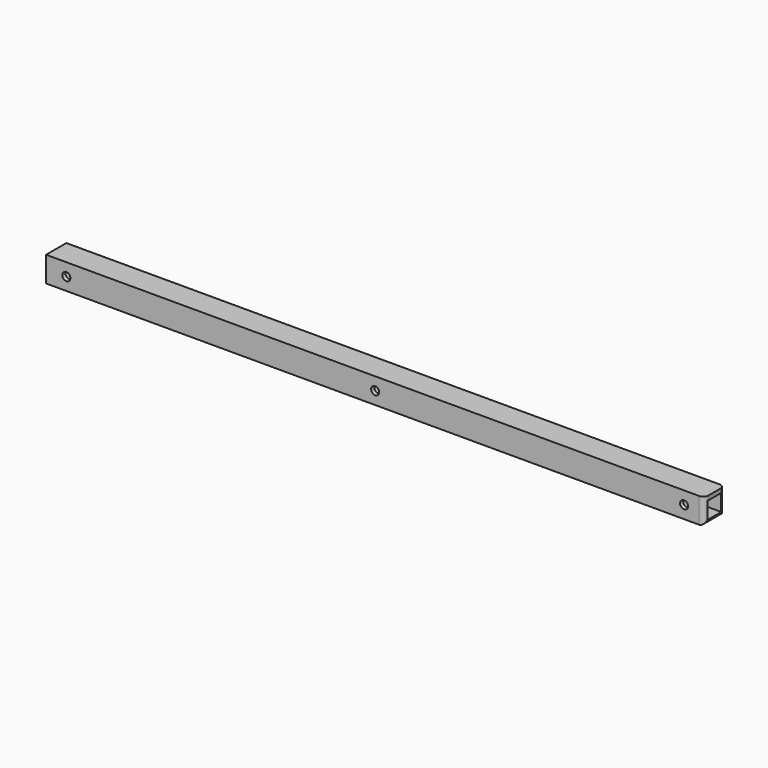
from build123d import *

# Parameters (mm, degrees)
F0_W     = 330.2
F0_H     = 12.7
F0_R     = 2.032
F1_DEPTH = 6.35
F2_R     = 2.54
F3_W     = 8.6677474901
F3_H     = 8.4455003962
F4_DEPTH = 330.2


with BuildPart() as f1:
    # F0 (on Front) → F1 (new body, symmetric)
    with BuildSketch(Plane.XZ):
        Rectangle(F0_W, F0_H)
        with Locations((-154.94, 0)):
            Circle(F0_R, mode=Mode.SUBTRACT)
        Circle(F0_R, mode=Mode.SUBTRACT)
        with Locations((154.94, 0)):
            Circle(F0_R, mode=Mode.SUBTRACT)
    extrude(amount=F1_DEPTH, both=True)

    # F2
    f2_edges = [f1.edges().sort_by_distance(p)[0] for p in [
        (165.1, 0, -6.35),
        (165.1, 6.35, 0),
        (165.1, -6.35, 0),
    ]]
    fillet(f2_edges, radius=F2_R)

    # F3 (on face) → F4 (cut)
    with BuildSketch(Plane(origin=(-165.1, 0, 0), x_dir=(0, -1, 0), z_dir=(-1, 0, 0))):
        Rectangle(F3_W, F3_H)
    extrude(amount=-F4_DEPTH, mode=Mode.SUBTRACT)


solid = f1.part
